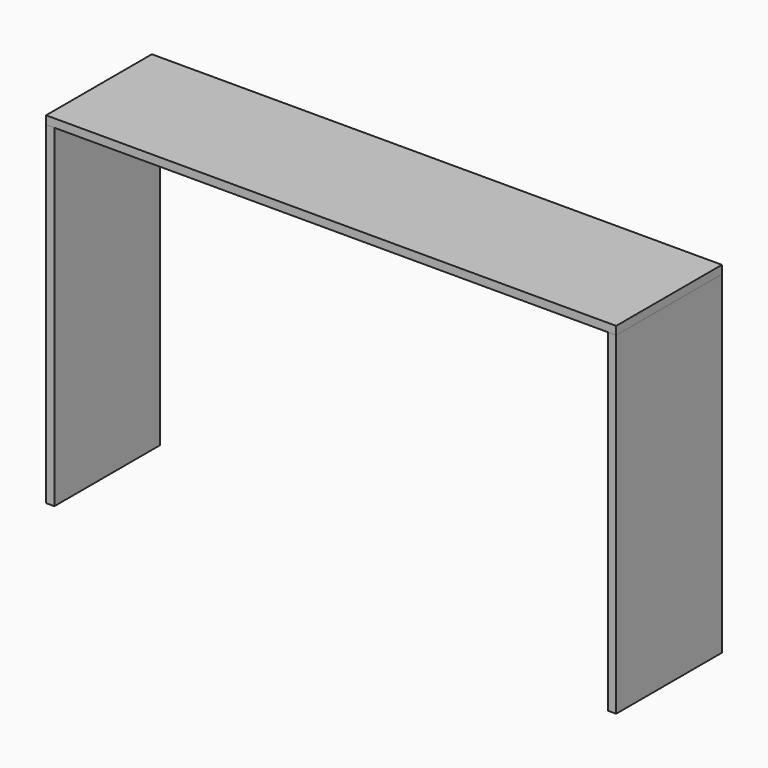
from build123d import *

# Parameters (mm, degrees)
F0_W     = 1314.45
F0_H     = 304.8
F1_DEPTH = 19.05
F2_W     = 19.05
F2_H     = 768.35
F3_DEPTH = 304.8


with BuildPart() as f1:
    # F0 (on Top) → F1 (new body)
    with BuildSketch(Plane.XY):
        Rectangle(F0_W, F0_H)
    extrude(amount=F1_DEPTH)


with BuildPart() as f3:
    # F2 (on face) → F3 (new body)
    with BuildSketch(Plane(origin=(0, 152.4, 0), x_dir=(-1, 0, 0), z_dir=(0, 1, 0))):
        with Locations((-647.7, -384.175)):
            Rectangle(F2_W, F2_H)
        with Locations((647.7, -384.175)):
            Rectangle(F2_W, F2_H)
    extrude(amount=-F3_DEPTH)


solid = Compound([f1.part, f3.part])
